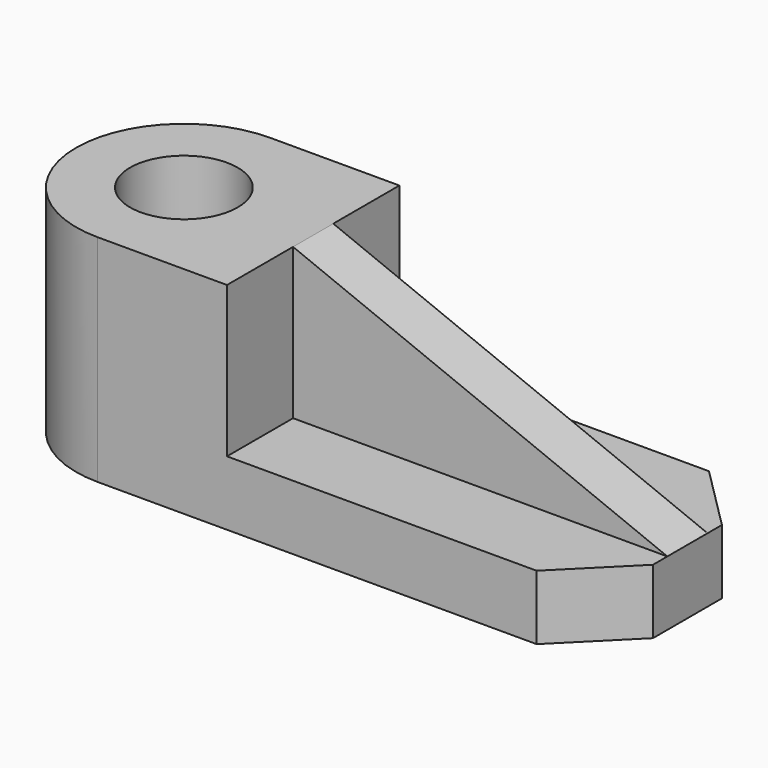
from build123d import *

# Parameters (mm, degrees)
F1_DEPTH = 9
F3_DEPTH = 21
F4_R     = 7.5
F5_DEPTH = 37.3
F6_W     = 52.1081472671
F6_H     = 7
F7_DEPTH = 21
F9_DEPTH = 25


with BuildPart() as f1:
    # F0 (on Top) → F1 (new body)
    with BuildSketch(Plane.XY):
        with BuildLine():
            Line((61.1081472671, 0), (0, 0))
            ThreePointArc((0, 0), (-15, -15), (0, -30))
            Line((0, -30), (61.1081472671, -30))
            Line((61.1081472671, -30), (70.1081472671, -21))
            Line((70.1081472671, -21), (70.1081472671, -9))
            Line((70.1081472671, -9), (61.1081472671, 0))
        make_face()
    extrude(amount=F1_DEPTH)

    # F2 (on face) → F3 (join)
    with BuildSketch(Plane.XY.offset(9)):
        with BuildLine():
            Line((18, -30), (18, 0))
            Line((18, 0), (0, 0))
            ThreePointArc((0, 0), (-15, -15), (0, -30))
            Line((0, -30), (18, -30))
        make_face()
    extrude(amount=F3_DEPTH)

    # F4 (on face) → F5 (cut)
    with BuildSketch(Plane.XY.offset(30)):
        with Locations((0, -15)):
            Circle(F4_R)
    extrude(amount=-F5_DEPTH, mode=Mode.SUBTRACT)

    # F6 (on face) → F7 (join)
    with BuildSketch(Plane.XY.offset(9)):
        with Locations((44.0540736336, -15)):
            Rectangle(F6_W, F6_H)
    extrude(amount=F7_DEPTH)

    # F8 (on face) → F9 (cut)
    with BuildSketch(Plane.XZ.offset(18.5)):
        Polygon((70.1081472671, 30), (18, 30), (70.1081472671, 9), align=None)
    extrude(amount=-F9_DEPTH, mode=Mode.SUBTRACT)


solid = f1.part
